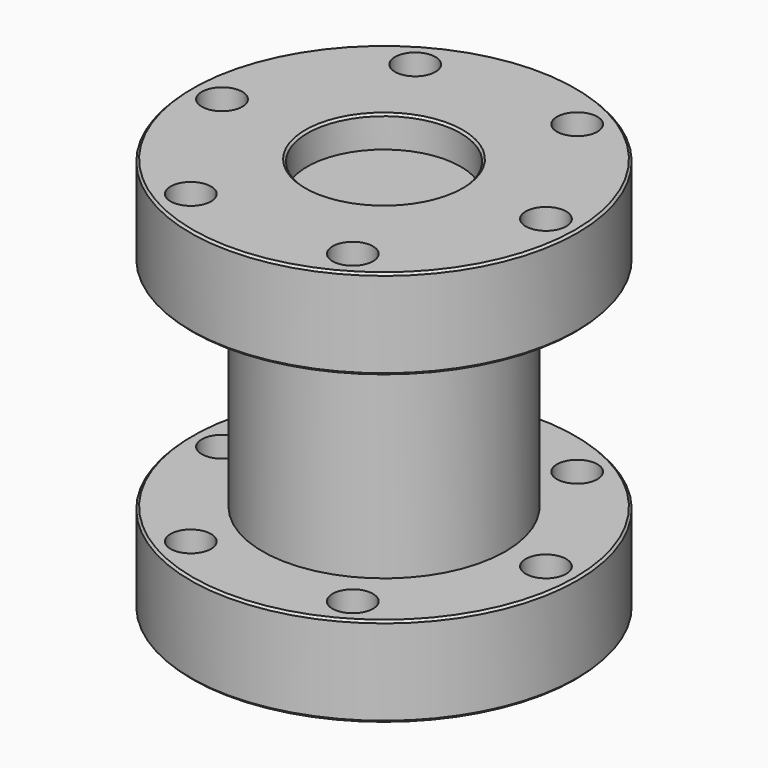
from build123d import *

# Parameters (mm, degrees)
F0_R      = 68.2625
F0_R_2    = 7.14375
F1_DEPTH  = 31.75
F3_R      = 68.2625
F3_R_2    = 7.14375
F4_DEPTH  = 31.75
F5_R      = 42.8625
F6_DEPTH  = 81.28
F7_R      = 27.051
F8_DEPTH  = 11.1125
F9_R      = 26.9875
F10_DEPTH = 3.175
F11_SIZE  = 0.762


with BuildPart() as f1:
    # F0 (on Top) → F1 (new body)
    with BuildSketch(Plane.XY):
        Circle(F0_R)
        with Locations((-28.575, -49.493352)):
            Circle(F0_R_2, mode=Mode.SUBTRACT)
        with Locations((28.575, -49.493352)):
            Circle(F0_R_2, mode=Mode.SUBTRACT)
        with Locations((-57.15, 0)):
            Circle(F0_R_2, mode=Mode.SUBTRACT)
        with Locations((-28.575, 49.493352)):
            Circle(F0_R_2, mode=Mode.SUBTRACT)
        with Locations((57.15, 0)):
            Circle(F0_R_2, mode=Mode.SUBTRACT)
        with Locations((28.575, 49.493352)):
            Circle(F0_R_2, mode=Mode.SUBTRACT)
    extrude(amount=F1_DEPTH)



with BuildPart() as f4:
    # F3 (on offset) → F4 (new body)
    with BuildSketch(Plane.XY.offset(-107.95)):
        Circle(F3_R)
        with Locations((-28.575, -49.493352)):
            Circle(F3_R_2, mode=Mode.SUBTRACT)
        with Locations((28.575, -49.493352)):
            Circle(F3_R_2, mode=Mode.SUBTRACT)
        with Locations((-57.15, 0)):
            Circle(F3_R_2, mode=Mode.SUBTRACT)
        with Locations((-28.575, 49.493352)):
            Circle(F3_R_2, mode=Mode.SUBTRACT)
        with Locations((57.15, 0)):
            Circle(F3_R_2, mode=Mode.SUBTRACT)
        with Locations((28.575, 49.493352)):
            Circle(F3_R_2, mode=Mode.SUBTRACT)
    extrude(amount=F4_DEPTH)


with BuildPart() as f1_1:
    add(f1.part)

    add(f4.part)  # F6 merges F4
    # F5 (on face) → F6 (join)
    with BuildSketch(Plane(origin=(0, 0, 0), x_dir=(1, 0, 0), z_dir=(0, 0, -1))):
        Circle(F5_R)
    extrude(amount=F6_DEPTH)

    # F7 (on face) → F8 (cut)
    with BuildSketch(Plane.XY.offset(31.75)):
        Circle(F7_R)
    extrude(amount=-F8_DEPTH, mode=Mode.SUBTRACT)

    # F9 (on face) → F10 (join)
    with BuildSketch(Plane(origin=(0, 0, -107.95), x_dir=(1, 0, 0), z_dir=(0, 0, -1))):
        Circle(F9_R)
    extrude(amount=F10_DEPTH)

    # F11
    f11_edges = [f1_1.edges().sort_by_distance(p)[0] for p in [
        (-68.2625, 0, 31.75),
        (-27.051, 0, 31.75),
        (-68.2625, 0, 0),
        (-68.2625, 0, -76.2),
        (-68.2625, 0, -107.95),
        (-26.9875, 0, -111.125),
    ]]
    chamfer(f11_edges, length=F11_SIZE)


solid = f1_1.part
